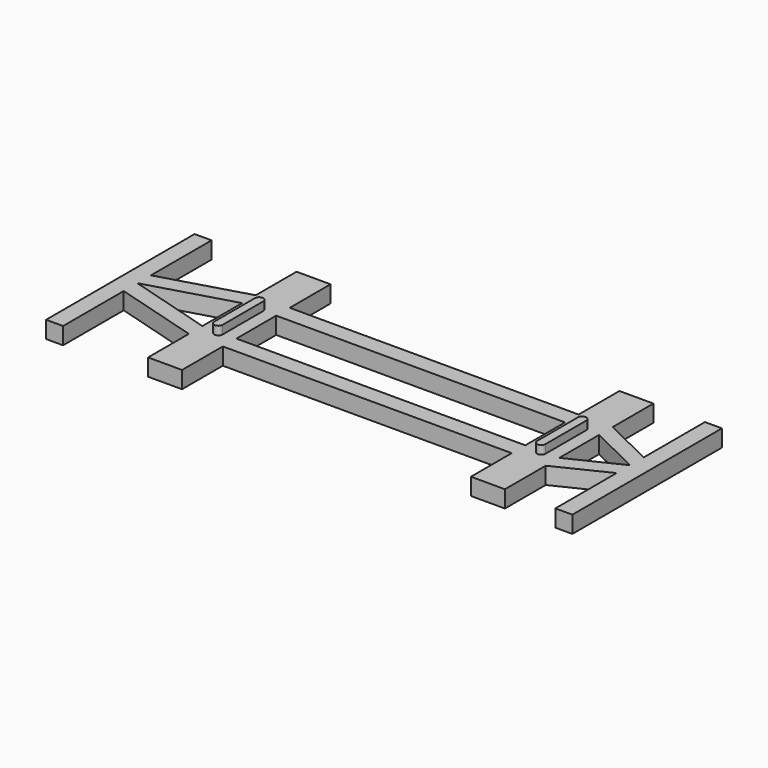
from build123d import *

# Parameters (mm, degrees)
F1_DEPTH = 2
F3_DEPTH = 1


with BuildPart() as f1:
    # F0 (on Top) → F1 (new body)
    with BuildSketch(Plane.XY):
        Polygon((0, -11), (0, 0), (0, 11), (-2, 11), (-2, 2), (-8, 4.923089), (-8, 10.923089), (-12, 10.923089), (-12, 4.923089), (-29, 4.923089), (-46, 4.923089), (-46, 10.923089), (-50, 10.923089), (-50, 4.923089), (-60, 2), (-60, 10.923089), (-62, 10.923089), (-62, -10.923089), (-60, -10.923089), (-60, -2), (-50, -4.923089), (-50, -10.923089), (-46, -10.923089), (-46, -4.923089), (-29, -4.923089), (-12, -4.923089), (-12, -10.923089), (-8, -10.923089), (-8, -4.923089), (-2, -2), (-2, -11), align=None)
        Polygon((-60, 0), (-50, 2.923089), (-50, -2.923089), align=None, mode=Mode.SUBTRACT)
        Polygon((-12, 2.923089), (-12, 0), (-12, -2.923089), (-29, -2.923089), (-46, -2.923089), (-46, 0), (-46, 2.923089), (-29, 2.923089), align=None, mode=Mode.SUBTRACT)
        Polygon((-8, 2.923089), (-2, 0), (-8, -2.923089), (-8, 0), align=None, mode=Mode.SUBTRACT)
    extrude(amount=F1_DEPTH)

    # F2 (on face) → F3 (join)
    with BuildSketch(Plane.XY.offset(2)):
        with BuildLine():
            Line((-47.5, -3.076911), (-47.5, 2.923089))
            ThreePointArc((-47.5, 2.923089), (-48, 3.423089), (-48.5, 2.923089))
            Line((-48.5, 2.923089), (-48.5, -3.076911))
            ThreePointArc((-48.5, -3.076911), (-48, -3.576911), (-47.5, -3.076911))
        make_face()
        with BuildLine():
            Line((-9.5, -3.076911), (-9.5, 2.923089))
            ThreePointArc((-9.5, 2.923089), (-10, 3.423089), (-10.5, 2.923089))
            Line((-10.5, 2.923089), (-10.5, -3.076911))
            ThreePointArc((-10.5, -3.076911), (-10, -3.576911), (-9.5, -3.076911))
        make_face()
    extrude(amount=F3_DEPTH)


solid = f1.part
